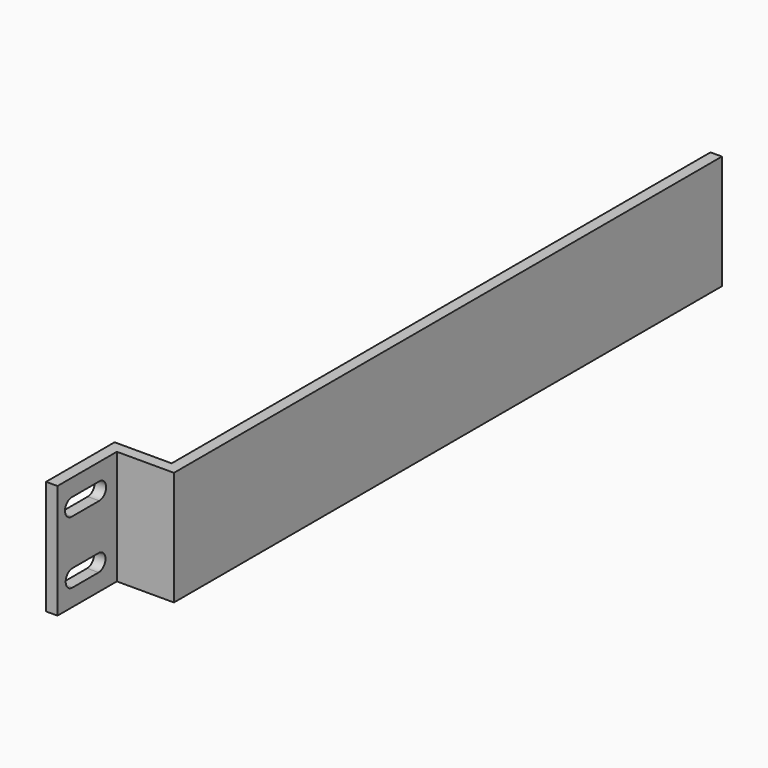
from build123d import *

# Parameters (mm, degrees)
F0_W     = 120
F0_H     = 20
F1_DEPTH = 2
F2_W     = 8
F2_H     = 20
F3_DEPTH = 2
F4_W     = 15
F4_H     = 20
F5_DEPTH = 2


with BuildPart() as f1:
    # F0 (on Right) → F1 (new body)
    with BuildSketch(Plane.YZ):
        Rectangle(F0_W, F0_H)
    extrude(amount=F1_DEPTH)

    # F2 (on face) → F3 (join)
    with BuildSketch(Plane.XZ.offset(60)):
        with Locations((-4, 0)):
            Rectangle(F2_W, F2_H)
    extrude(amount=-F3_DEPTH)

    # F4 (on face) → F5 (join)
    with BuildSketch(Plane(origin=(-8, 0, 0), x_dir=(0, -1, 0), z_dir=(-1, 0, 0))):
        with Locations((65.5, 0)):
            Rectangle(F4_W, F4_H)
        with BuildLine():
            Line((69.711817, -7), (63.999042, -7))
            ThreePointArc((63.999042, -7), (62.499042, -5.5), (63.999042, -4))
            Line((63.999042, -4), (69.711817, -4))
            ThreePointArc((69.711817, -4), (71.211817, -5.5), (69.711817, -7))
        make_face(mode=Mode.SUBTRACT)
        with BuildLine():
            Line((69.855429, 4), (63.855429, 4))
            ThreePointArc((63.855429, 4), (62.355429, 5.5), (63.855429, 7))
            Line((63.855429, 7), (69.855429, 7))
            ThreePointArc((69.855429, 7), (71.355429, 5.5), (69.855429, 4))
        make_face(mode=Mode.SUBTRACT)
    extrude(amount=F5_DEPTH)


solid = f1.part
